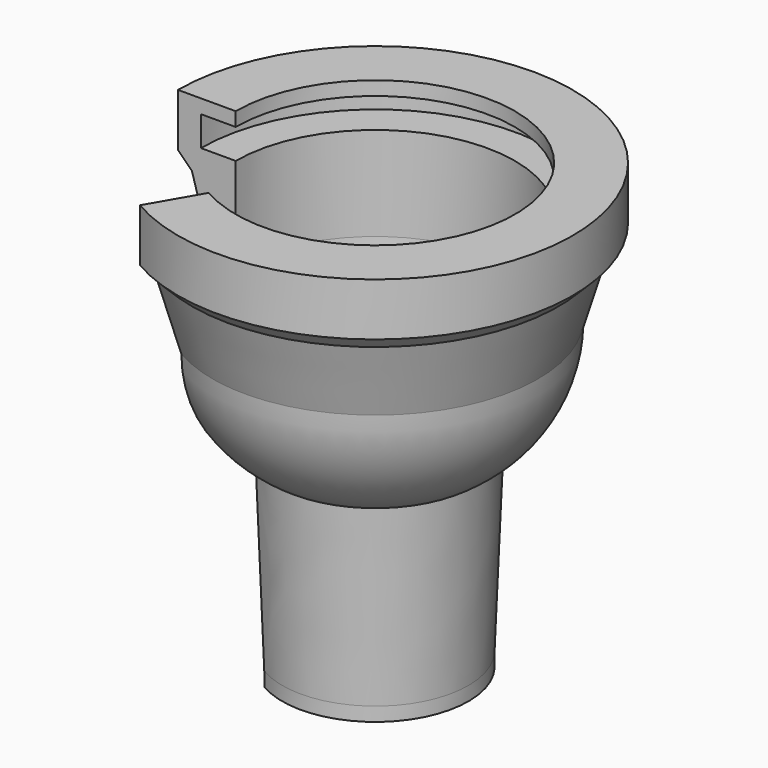
from build123d import *

# Parameters (mm, degrees)
F1_ANGLE = 300


with BuildPart() as f1:
    # F0 (on Front) → F1 (revolve)
    with BuildSketch(Plane.XZ):
        with BuildLine():
            Line((-10.1, -52.704107), (-10.1, -49.404107))
            Line((-10.1, -49.404107), (-10.1, -31.187289))
            Line((-10.1, -31.187289), (-11.1, -31.187289))
            Line((-11.1, -31.187289), (-11.1, -23.187289))
            ThreePointArc((-11.1, -23.187289), (-17.668204, -17.190428), (-20.1, -8.635312))
            Line((-20.1, -8.635312), (-20.1, 4.864688))
            Line((-20.1, 4.864688), (-25.1, 4.864688))
            Line((-25.1, 4.864688), (-25.1, 9.164689))
            Line((-25.1, 9.164689), (-20.1, 9.164689))
            Line((-20.1, 9.164689), (-20.1, 11.164689))
            Line((-20.1, 11.164689), (-28.4, 11.164689))
            Line((-28.4, 11.164689), (-28.4, 9.164689))
            Line((-28.4, 9.164689), (-28.4, 3.564688))
            Line((-28.4, 3.564688), (-26.4, 1.564688))
            Line((-26.4, 1.564688), (-23.4, -8.635312))
            ThreePointArc((-23.4, -8.635312), (-21.003185, -18.018276), (-14.4, -25.10225))
            Line((-14.4, -25.10225), (-13.4, -50.704107))
            Line((-13.4, -50.704107), (-13.4, -52.704107))
            Line((-13.4, -52.704107), (-11.4, -52.704107))
            Line((-11.4, -52.704107), (-10.1, -52.704107))
        make_face()
    revolve(axis=Axis((0, 0, -21.618474), (0, 0, -1)), revolution_arc=F1_ANGLE)


solid = f1.part
